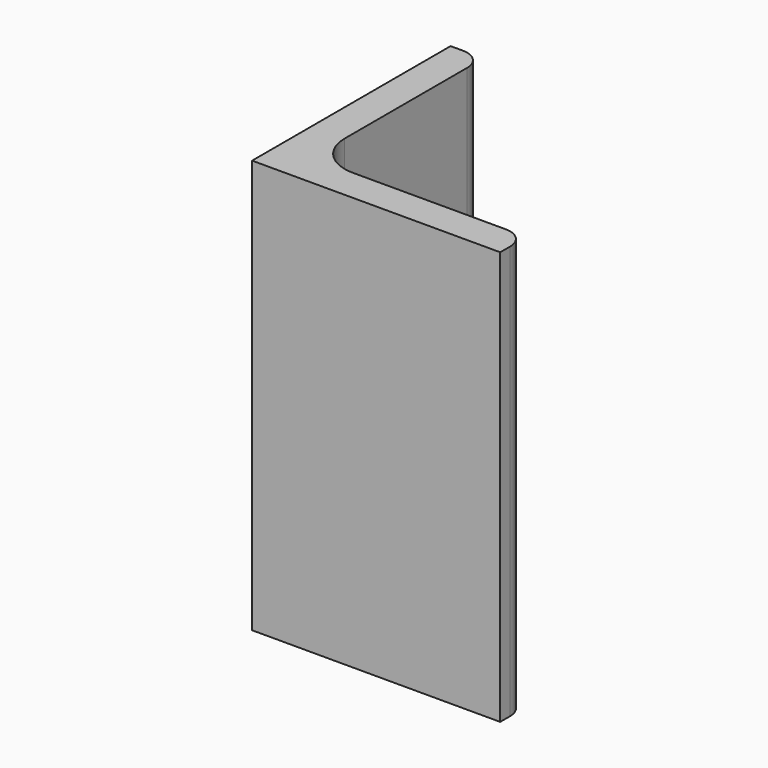
from build123d import *

# Parameters (mm, degrees)
EXTRUDE_DEPTH = 50


with BuildPart() as part:
    # Sketch → Extrude (new body)
    with BuildSketch(Plane.XY):
        with BuildLine():
            Line((0, 0), (30, 0))
            Line((30, 0), (30, 1.5))
            ThreePointArc((30, 1.5), (29.267767, 3.267767), (27.5, 4))
            Line((27.5, 4), (9, 4))
            ThreePointArc((4, 9), (5.464466, 5.464466), (9, 4))
            Line((4, 27.5), (4, 9))
            ThreePointArc((4, 27.5), (3.267767, 29.267767), (1.5, 30))
            Line((0, 30), (1.5, 30))
            Line((0, 0), (0, 30))
        make_face()
    extrude(amount=EXTRUDE_DEPTH)


solid = part.part
